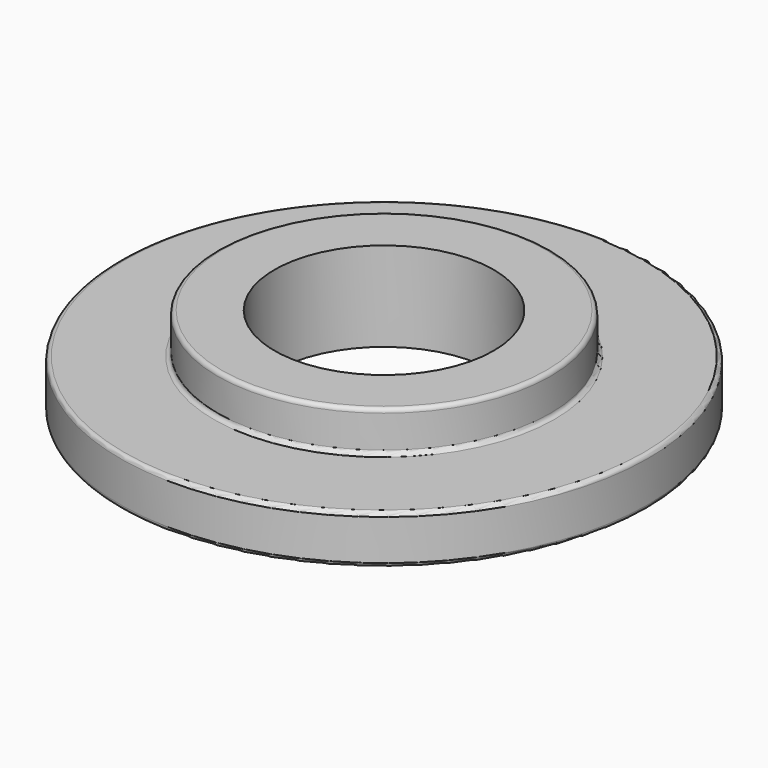
from build123d import *

# Parameters (mm, degrees)
F2_R = 0.5


with BuildPart() as f1:
    # F0 (on Front) → F1 (revolve)
    with BuildSketch(Plane.XZ):
        Polygon((20.5, 5.5), (13.5, 5.5), (13.5, -5.5), (32.5, -5.5), (32.5, 0.5), (20.5, 0.5), align=None)
    revolve(axis=Axis((0, 0, -0.180863), (0, 0, -1)))

    # F2
    f2_edges = [f1.edges().sort_by_distance(p)[0] for p in [
        (-32.5, 0, -5.5),
        (-32.5, 0, 0.5),
        (-20.5, 0, 5.5),
        (-20.5, 0, 0.5),
    ]]
    fillet(f2_edges, radius=F2_R)


solid = f1.part
